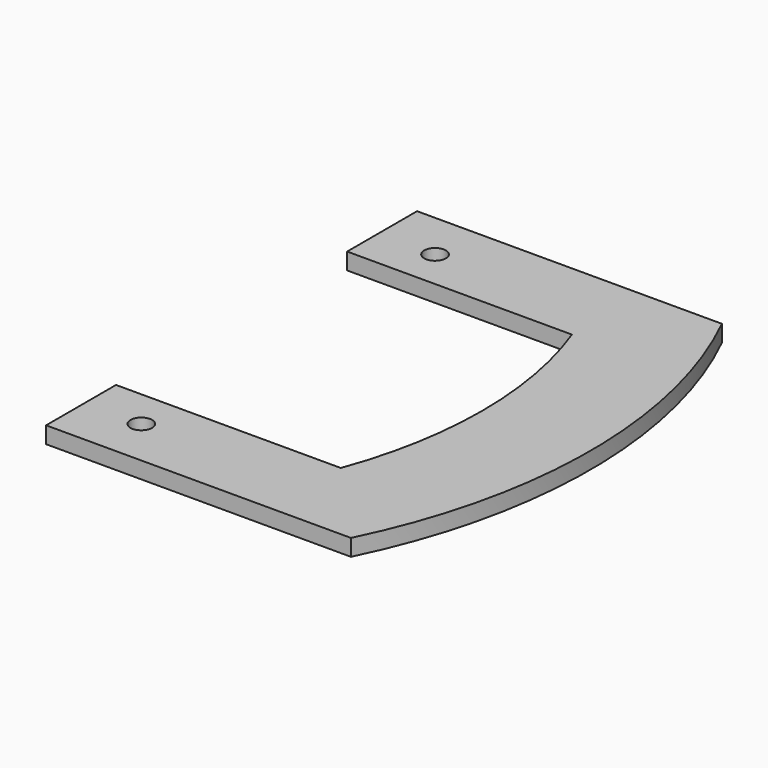
from build123d import *

# Parameters (mm, degrees)
F0_R     = 1.3
F1_DEPTH = 2


with BuildPart() as f1:
    # F0 (on Top) → F1 (new body)
    with BuildSketch(Plane.XY):
        with BuildLine():
            Line((20.2, 4.7), (-6.8, 4.7))
            Line((-6.8, 4.7), (-6.8, -5.8))
            Line((-6.8, -5.8), (29.816721, -5.8))
            ThreePointArc((29.816721, -5.8), (36.306744, 22.05), (29.816721, 49.9))
            Line((29.816721, 49.9), (-6.8, 49.9))
            Line((-6.8, 49.9), (-6.8, 39.4))
            Line((-6.8, 39.4), (20.2, 39.4))
            ThreePointArc((20.2, 39.4), (23.306744, 22.05), (20.2, 4.7))
        make_face()
        Circle(F0_R, mode=Mode.SUBTRACT)
        with Locations((0, 44.1)):
            Circle(F0_R, mode=Mode.SUBTRACT)
    extrude(amount=F1_DEPTH)


solid = f1.part
